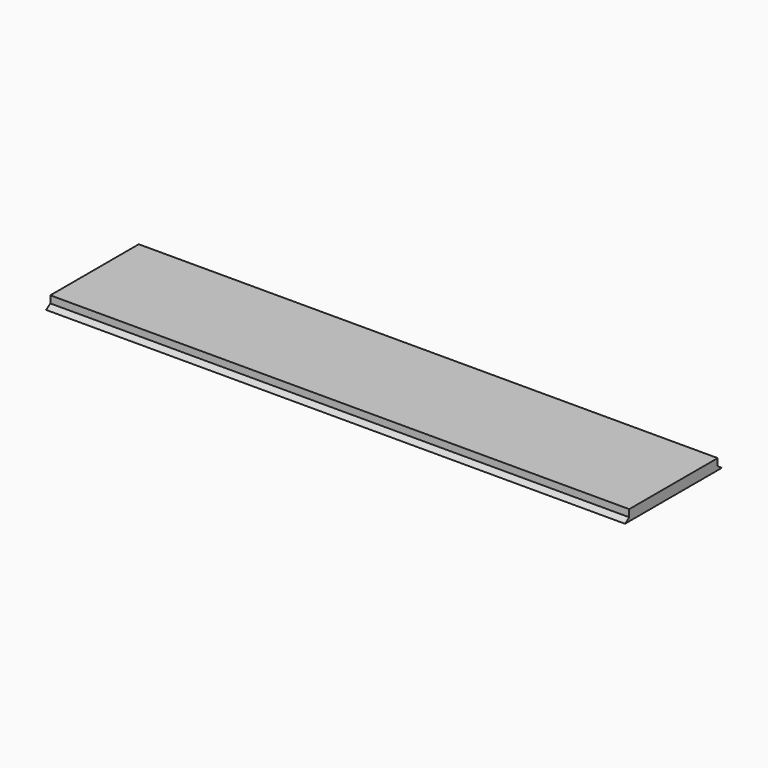
from build123d import *

# Parameters (mm, degrees)
SKETCH_W             = 162
SKETCH_H             = 33.9
PAD_DEPTH            = 3
POCKET_DEPTH         = 81.001
POCKET_DEPTH_BACK    = 81.001
POCKET001_DEPTH      = 81.001
POCKET001_DEPTH_BACK = 81.001


with BuildPart() as part:
    # Sketch → Pad (new body)
    with BuildSketch(Plane.XY):
        Rectangle(SKETCH_W, SKETCH_H)
    extrude(amount=PAD_DEPTH)

    # Sketch001 → Pocket (cut, two sides)
    with BuildSketch(Plane.YZ) as pocket_sk:
        Polygon((15.47, 3), (16.95, 3), (16.95, 0), (15.47, 1), align=None)
    extrude(amount=-POCKET_DEPTH, mode=Mode.SUBTRACT)
    extrude(pocket_sk.sketch, amount=POCKET_DEPTH_BACK, mode=Mode.SUBTRACT)

    # MirroredSketch → Pocket001 (cut, two sides)
    with BuildSketch(Plane.YZ) as pocket001_sk:
        Polygon((-15.47, 3), (-16.95, 3), (-16.95, 0), (-15.47, 1), align=None)
    extrude(amount=-POCKET001_DEPTH, mode=Mode.SUBTRACT)
    extrude(pocket001_sk.sketch, amount=POCKET001_DEPTH_BACK, mode=Mode.SUBTRACT)


solid = part.part
